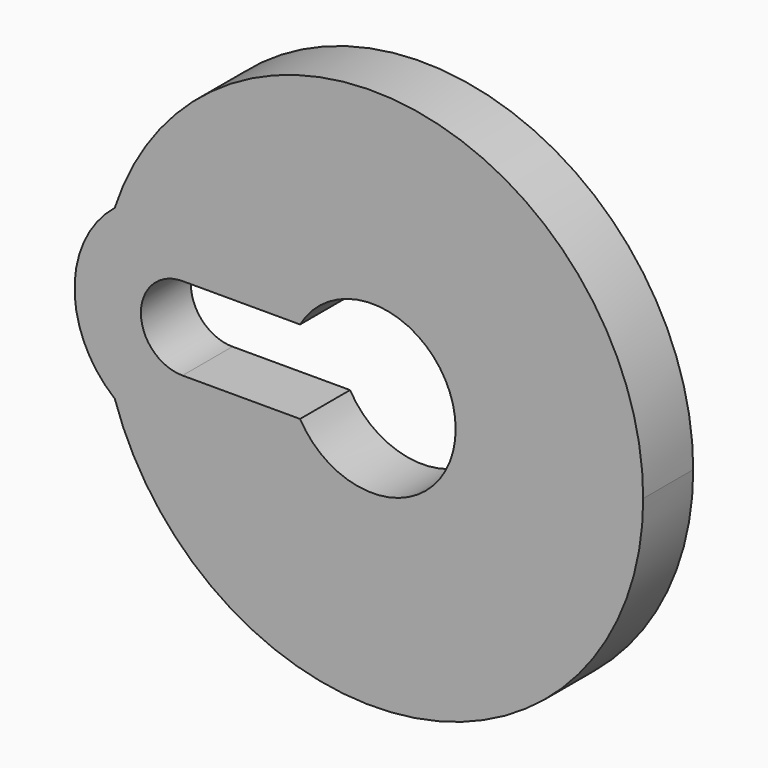
from build123d import *

# Parameters (mm, degrees)
F1_DEPTH = 3


with BuildPart() as f1:
    # F0 (on Front) → F1 (new body)
    with BuildSketch(Plane.XZ):
        with BuildLine():
            Line((-9.1093318323, 1.994954946), (-4.331072879, 1.994954946))
            ThreePointArc((-4.331072879, 1.994954946), (-7.8363542053, 5.0190767898), (-12.3592117795, 4.0311145096))
            ThreePointArc((-12.3592117795, 4.0311145096), (-13, 0), (-12.3592117795, -4.0311145096))
            ThreePointArc((-12.3592117795, -4.0311145096), (-7.8363542053, -5.0190767898), (-4.331072879, -1.994954946))
            Line((-4.331072879, -1.994954946), (-9.1093318323, -1.994954946))
            ThreePointArc((-9.1093318323, -1.994954946), (-11.1042867783, 0), (-9.1093318323, 1.994954946))
        make_face()
        with BuildLine():
            ThreePointArc((-3.4670094842, 1.994954946), (1.032463574, 3.8644558438), (4, 0))
            ThreePointArc((4, 0), (1.032463574, -3.8644558438), (-3.4670094842, -1.994954946))
            Line((-3.4670094842, -1.994954946), (-4.331072879, -1.994954946))
            ThreePointArc((-4.331072879, -1.994954946), (-7.8363542053, -5.0190767898), (-12.3592117795, -4.0311145096))
            ThreePointArc((-12.3592117795, -4.0311145096), (2.0408634039, -12.8388035489), (13, 0))
            ThreePointArc((13, 0), (2.0408634039, 12.8388035489), (-12.3592117795, 4.0311145096))
            ThreePointArc((-12.3592117795, 4.0311145096), (-7.8363542053, 5.0190767898), (-4.331072879, 1.994954946))
            Line((-4.331072879, 1.994954946), (-3.4670094842, 1.994954946))
        make_face()
        with BuildLine():
            ThreePointArc((-12.3592117795, -4.0311145096), (-13, 0), (-12.3592117795, 4.0311145096))
            ThreePointArc((-12.3592117795, 4.0311145096), (-14.2873240939, 0), (-12.3592117795, -4.0311145096))
        make_face()
    extrude(amount=F1_DEPTH)


solid = f1.part
